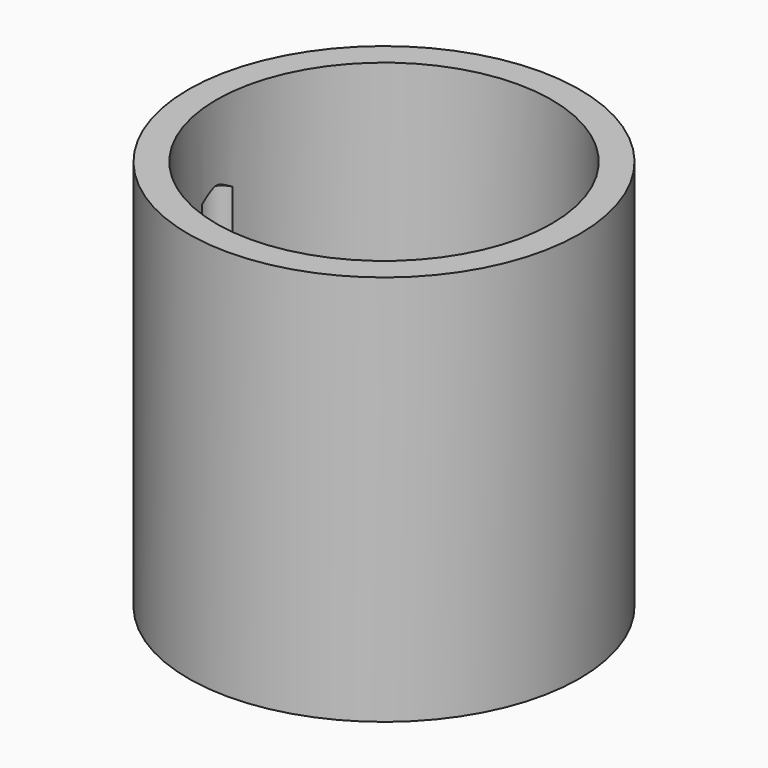
from build123d import *

# Parameters (mm, degrees)
F0_R     = 35
F1_DEPTH = 70
F2_T     = -5
F3_DEPTH = 20
F5_D     = 7
F5_DEPTH = 55
F5_TIP   = 2.1030121666
F6_R     = 10
F7_DEPTH = 25


with BuildPart() as f1:
    # F0 (on Top) → F1 (new body)
    with BuildSketch(Plane.XY):
        Circle(F0_R)
    extrude(amount=-F1_DEPTH)

    # F2
    f2_openings = [f1.faces().sort_by_distance(p)[0] for p in [
        (0, 0, 0),
    ]]
    offset(amount=F2_T, openings=f2_openings)

    # F3 (add): a face of the model
    f3_faces = [f1.faces().sort_by_distance(p)[0] for p in [
        (0, 0, -65),
    ]]
    extrude(f3_faces, amount=F3_DEPTH)

    # F5
    with Locations(Plane(origin=(0, 0, -70), x_dir=(1, 0, 0), z_dir=(0, 0, -1))):
        with Locations((-29, 0)):
            Hole(F5_D / 2, depth=F5_DEPTH)
            with Locations((0, 0, -(F5_DEPTH + F5_TIP / 2))):  # 118° drill point
                Cone(0, F5_D / 2, F5_TIP, mode=Mode.SUBTRACT)

    # F6 (on face) → F7 (cut, through all)
    with BuildSketch(Plane(origin=(0, 0, -70), x_dir=(1, 0, 0), z_dir=(0, 0, -1))):
        Circle(F6_R)
    extrude(amount=-F7_DEPTH, mode=Mode.SUBTRACT)


solid = f1.part
